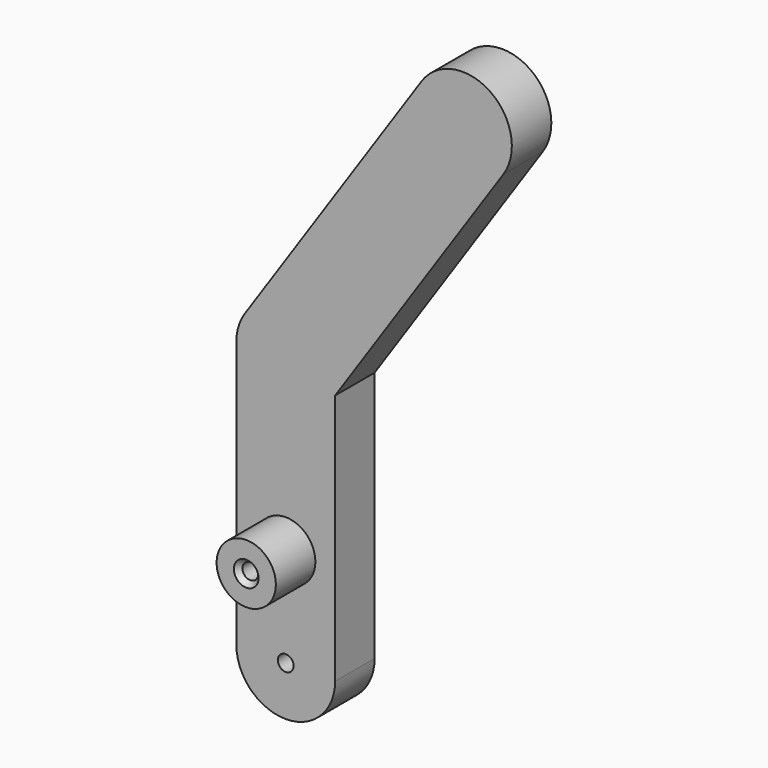
from build123d import *

# Parameters (mm, degrees)
F1_DEPTH       = 6.35
F2_R           = 3.81
F3_DEPTH       = 6.35
F5_D           = 2.032
F5_CSINK_D     = 3.175
F5_CSINK_ANGLE = 82
F7_D           = 2.032


with BuildPart() as f1:
    # F0 (on Front) → F1 (new body)
    with BuildSketch(Plane.XZ):
        with BuildLine():
            Line((3.550874937, 5.2643885857), (0, 0))
            Line((0, 0), (0, -6.35))
            ThreePointArc((0, -6.35), (2.9811444237, -5.6067172147), (5.2643885857, -3.550874937))
            Line((5.2643885857, -3.550874937), (6.35, -1.9413898273))
            Line((6.35, -1.9413898273), (6.35, 0))
            ThreePointArc((6.35, 0), (5.6067172147, 2.9811444237), (3.550874937, 5.2643885857))
        make_face()
        with BuildLine():
            Line((0, -6.35), (0, 0))
            Line((0, 0), (3.550874937, 5.2643885857))
            ThreePointArc((3.550874937, 5.2643885857), (-1.2116371206, 6.2333326149), (-5.2643885857, 3.550874937))
            ThreePointArc((-5.2643885857, 3.550874937), (-6.0725352004, 1.856560325), (-6.35, 0))
            ThreePointArc((-6.35, 0), (-4.4901280605, -4.4901280605), (0, -6.35))
        make_face()
        with BuildLine():
            ThreePointArc((5.2643885857, -3.550874937), (2.9811444237, -5.6067172147), (0, -6.35))
            Line((0, -6.35), (0, -15.24))
            ThreePointArc((0, -15.24), (4.4901280605, -17.0998719395), (6.35, -21.59))
            Line((6.35, -21.59), (6.35, -1.9413898273))
            Line((6.35, -1.9413898273), (5.2643885857, -3.550874937))
        make_face()
        with BuildLine():
            Line((0, -15.24), (0, -6.35))
            ThreePointArc((0, -6.35), (-4.4901280605, -4.4901280605), (-6.35, 0))
            Line((-6.35, 0), (-6.35, -21.59))
            ThreePointArc((-6.35, -21.59), (-4.4901280605, -17.0998719395), (0, -15.24))
        make_face()
        with BuildLine():
            ThreePointArc((-5.2643885857, 3.550874937), (-1.2116371206, 6.2333326149), (3.550874937, 5.2643885857))
            ThreePointArc((3.550874937, 5.2643885857), (5.6067172147, 2.9811444237), (6.35, 0))
            Line((6.35, 0), (6.35, -1.9413898273))
            Line((6.35, -1.9413898273), (27.9899881828, 30.1412120116))
            ThreePointArc((27.9899881828, 30.1412120116), (26.2764745341, 38.9564755344), (17.4612110113, 37.2429618857))
            Line((17.4612110113, 37.2429618857), (-5.2643885857, 3.550874937))
        make_face()
        with BuildLine():
            ThreePointArc((6.35, -21.59), (4.4901280605, -17.0998719395), (0, -15.24))
            Line((0, -15.24), (0, -21.59))
            Line((0, -21.59), (0, -27.94))
            ThreePointArc((0, -27.94), (4.4901280605, -26.0801280605), (6.35, -21.59))
        make_face()
        with BuildLine():
            Line((0, -21.59), (0, -15.24))
            ThreePointArc((0, -15.24), (-4.4901280605, -17.0998719395), (-6.35, -21.59))
            ThreePointArc((-6.35, -21.59), (-4.4901280605, -26.0801280605), (0, -27.94))
            Line((0, -27.94), (0, -21.59))
        make_face()
        with BuildLine():
            ThreePointArc((0, -27.94), (-4.4901280605, -26.0801280605), (-6.35, -21.59))
            Line((-6.35, -21.59), (-6.35, -34.29))
            ThreePointArc((-6.35, -34.29), (0, -40.64), (6.35, -34.29))
            Line((6.35, -34.29), (6.35, -21.59))
            ThreePointArc((6.35, -21.59), (4.4901280605, -26.0801280605), (0, -27.94))
        make_face()
    extrude(amount=F1_DEPTH)

    # F2 (on face) → F3 (join)
    with BuildSketch(Plane.XZ.offset(6.35)):
        with Locations((0, -21.59)):
            Circle(F2_R)
    extrude(amount=F3_DEPTH)

    # F5 (through all)
    with Locations(Plane.XZ.offset(12.7)):
        with Locations((0, -21.59)):
            CounterSinkHole(F5_D / 2, F5_CSINK_D / 2, counter_sink_angle=F5_CSINK_ANGLE)

    # F7 (through all)
    with Locations(Plane.XZ.offset(6.35)):
        with Locations((0, -34.29)):
            Hole(F7_D / 2)


solid = f1.part
